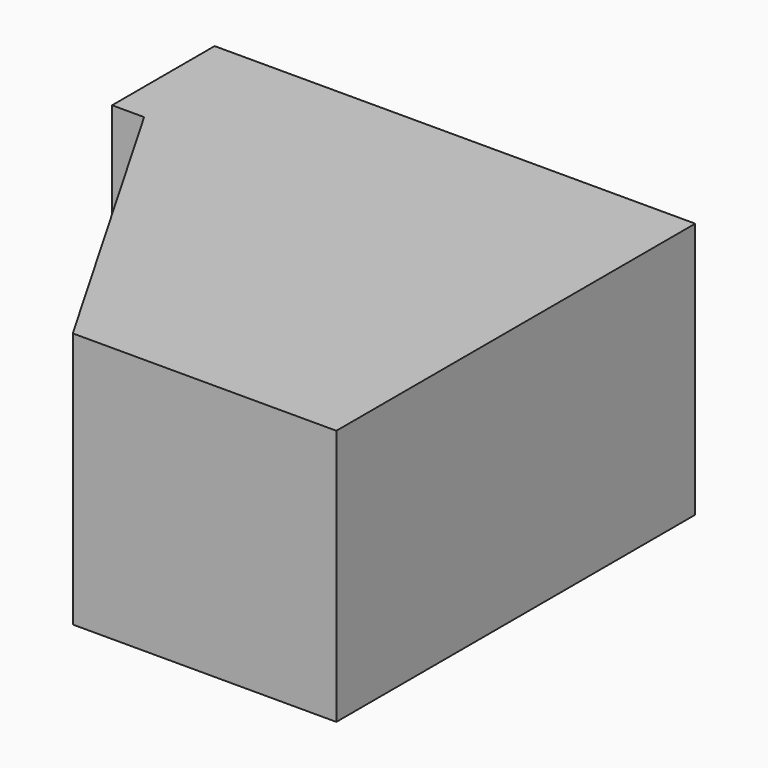
from build123d import *

# Parameters (mm, degrees)
F0_W     = 190.5
F0_H     = 101.6
F1_DEPTH = 177.8
F3_DEPTH = 101.601


with BuildPart() as f1:
    # F0 (on Front) → F1 (new body)
    with BuildSketch(Plane.XZ):
        Rectangle(F0_W, F0_H)
        Rectangle(F0_W, F0_H)
    extrude(amount=F1_DEPTH)

    # F2 (on face) → F3 (cut, through all)
    with BuildSketch(Plane(origin=(0, 0, -50.8), x_dir=(1, 0, 0), z_dir=(0, 0, -1))):
        Polygon((-95.25, 177.8), (-95.25, 50.8), (-82.55, 50.8), (-9.226516, 177.8), align=None)
    extrude(amount=-F3_DEPTH, mode=Mode.SUBTRACT)


solid = f1.part
